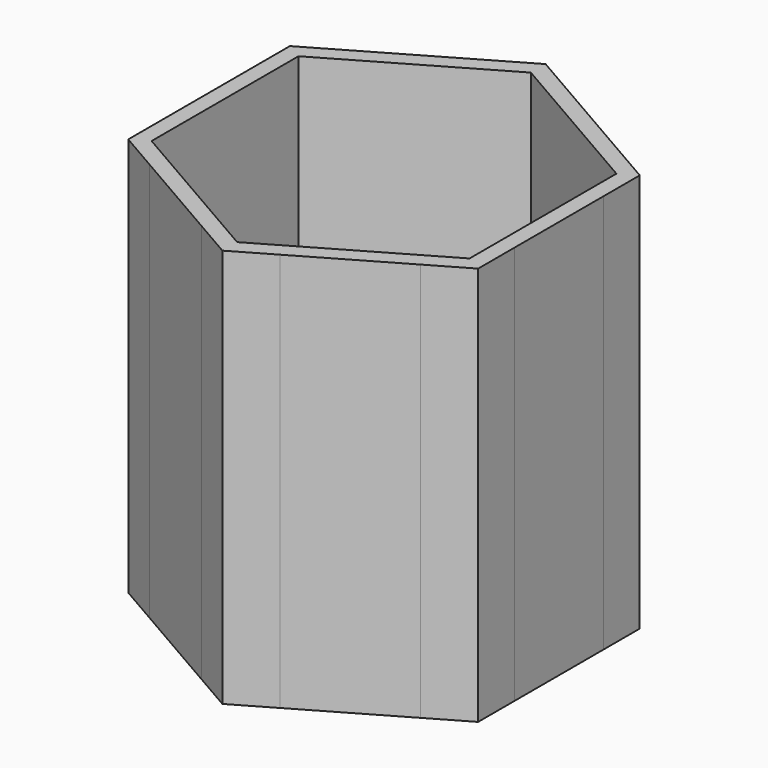
from build123d import *

# Parameters (mm, degrees)
F0_R     = 1.05
F1_DEPTH = 2
F2_DEPTH = 50
F3_COUNT = 6
F4_DEPTH = 50.001


with BuildPart() as f1:
    # F0 (on Top) → F1 (new body)
    with BuildSketch(Plane.XY):
        with BuildLine():
            Line((18.2298347497, 10.525), (19.918584287, 11.5))
            Line((19.918584287, 11.5), (0, 23))
            Line((0, 23), (0, 21.05))
            ThreePointArc((0, 21.05), (0.7424621202, 20.7424621202), (1.05, 20))
            ThreePointArc((1.05, 20), (0.7424621202, 19.2575378798), (0, 18.95))
            Line((0, 18.95), (0, 16.05))
            ThreePointArc((0, 16.05), (0.7424621202, 15.7424621202), (1.05, 15))
            ThreePointArc((1.05, 15), (0.7424621202, 14.2575378798), (0, 13.95))
            Line((0, 13.95), (0, 11.05))
            ThreePointArc((0, 11.05), (0.7424621202, 10.7424621202), (1.05, 10))
            ThreePointArc((1.05, 10), (0.7424621202, 9.2575378798), (0, 8.95))
            Line((0, 8.95), (0, 6.05))
            ThreePointArc((0, 6.05), (0.7424621202, 5.7424621202), (1.05, 5))
            ThreePointArc((1.05, 5), (0.7424621202, 4.2575378798), (0, 3.95))
            Line((0, 3.95), (0, 1.05))
            ThreePointArc((0, 1.05), (0.525, 0.909326674), (0.909326674, 0.525))
            Line((0.909326674, 0.525), (3.4208003449, 1.975))
            ThreePointArc((3.4208003449, 1.975), (3.8051270189, 3.409326674), (5.2394536929, 3.025))
            Line((5.2394536929, 3.025), (7.7509273639, 4.475))
            ThreePointArc((7.7509273639, 4.475), (8.1352540378, 5.909326674), (9.5695807118, 5.525))
            Line((9.5695807118, 5.525), (12.0810543828, 6.975))
            ThreePointArc((12.0810543828, 6.975), (12.4653810568, 8.409326674), (13.8997077307, 8.025))
            Line((13.8997077307, 8.025), (16.4111814017, 9.475))
            ThreePointArc((16.4111814017, 9.475), (16.7955080757, 10.909326674), (18.2298347497, 10.525))
        make_face()
        with Locations((4.3301270189, 7.5)):
            Circle(F0_R, mode=Mode.SUBTRACT)
        with Locations((4.3301270189, 12.5)):
            Circle(F0_R, mode=Mode.SUBTRACT)
        with Locations((8.6602540378, 10)):
            Circle(F0_R, mode=Mode.SUBTRACT)
        with Locations((12.9903810568, 12.5)):
            Circle(F0_R, mode=Mode.SUBTRACT)
        with Locations((4.3301270189, 17.5)):
            Circle(F0_R, mode=Mode.SUBTRACT)
        with Locations((8.6602540378, 15)):
            Circle(F0_R, mode=Mode.SUBTRACT)
        with BuildLine():
            Line((0, 0), (0.909326674, 0.525))
            ThreePointArc((0.909326674, 0.525), (0.525, 0.909326674), (0, 1.05))
            Line((0, 1.05), (0, 0))
        make_face()
    extrude(amount=F1_DEPTH)

    # F0 (on Top) → F2 (join)
    with BuildSketch(Plane.XY):
        with BuildLine():
            Line((0, 25.3094010768), (0, 23))
            ThreePointArc((0, 23), (2.4761009674, 22.8663272958), (4.9234204468, 22.4668629564))
            Line((4.9234204468, 22.4668629564), (0, 25.3094010768))
        make_face()
        with BuildLine():
            ThreePointArc((16.9951638402, 15.4972386587), (18.5647698457, 13.577529988), (19.918584287, 11.5))
            Line((19.918584287, 11.5), (21.918584287, 12.6547005384))
            Line((21.918584287, 12.6547005384), (16.9951638402, 15.4972386587))
        make_face()
        with BuildLine():
            Line((0, 23), (19.918584287, 11.5))
            ThreePointArc((19.918584287, 11.5), (18.5647698457, 13.577529988), (16.9951638402, 15.4972386587))
            Line((16.9951638402, 15.4972386587), (4.9234204468, 22.4668629564))
            ThreePointArc((4.9234204468, 22.4668629564), (2.4761009674, 22.8663272958), (0, 23))
        make_face()
    extrude(amount=F2_DEPTH)

    # F3: F1 ×6 about axis
    f3_axis = Axis((0, 0, 1), (0, 0, -1))


with BuildPart() as f1_1:
    add(f1.part)
    for i in range(1, F3_COUNT):
        add(f1.part.rotate(f3_axis, i * 360 / F3_COUNT))

    # F0 (on Top) → F4 (cut, through all)
    with BuildSketch(Plane.XY):
        with BuildLine():
            ThreePointArc((1.05, 0), (1.0142221176, 0.2717599974), (0.909326674, 0.525))
            Line((0.909326674, 0.525), (0, 0))
            Line((0, 0), (0, 1.05))
            ThreePointArc((0, 1.05), (-0.7424621202, -0.7424621202), (1.05, 0))
        make_face()
        with BuildLine():
            Line((0, 0), (0.909326674, 0.525))
            ThreePointArc((0.909326674, 0.525), (0.525, 0.909326674), (0, 1.05))
            Line((0, 1.05), (0, 0))
        make_face()
    extrude(amount=F4_DEPTH, mode=Mode.SUBTRACT)


solid = f1_1.part
